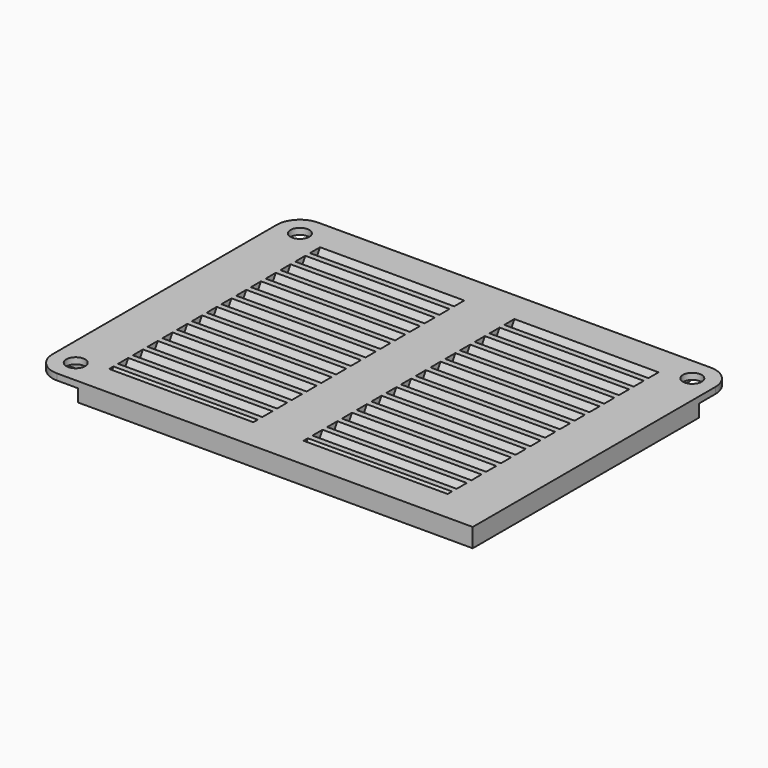
from build123d import *

# Parameters (mm, degrees)
F1_R     = 1.5
F1_W     = 23.025
F1_H     = 42.14
F2_DEPTH = 3
F4_DEPTH = 23.025
F6_DEPTH = 23.025
F8_DEPTH = 2


with BuildPart() as f2:
    # F1 (on Top) → F2 (new body)
    with BuildSketch(Plane.XY):
        with BuildLine():
            ThreePointArc((4, 48.44), (1.383705, 47.356295), (0.3, 44.74))
            Line((0.3, 44.74), (0.3, 0))
            ThreePointArc((0.3, 0), (1.383705, -2.616295), (4, -3.7))
            Line((4, -3.7), (70.35, -3.7))
            Line((70.35, -3.7), (70.35, 44.74))
            ThreePointArc((70.35, 44.74), (69.266295, 47.356295), (66.65, 48.44))
            Line((66.65, 48.44), (4, 48.44))
        make_face()
        with Locations((4, 0)):
            Circle(F1_R, mode=Mode.SUBTRACT)
        with Locations((19.8125, 22.37)):
            Rectangle(F1_W, F1_H, mode=Mode.SUBTRACT)
        with Locations((4, 44.74)):
            Circle(F1_R, mode=Mode.SUBTRACT)
        with Locations((50.8375, 22.37)):
            Rectangle(F1_W, F1_H, mode=Mode.SUBTRACT)
        with Locations((66.65, 44.74)):
            Circle(F1_R, mode=Mode.SUBTRACT)
    extrude(amount=F2_DEPTH)

    # F3 (on face) → F4 (join)
    with BuildSketch(Plane(origin=(31.325, 0, 0), x_dir=(0, -1, 0), z_dir=(-1, 0, 0))):
        Polygon((-22.774145, 3), (-23.697906, 3), (-21.965855, 0), (-21.042094, 0), align=None)
        Polygon((-19.829659, 3), (-20.753419, 3), (-19.021368, 0), (-18.097608, 0), align=None)
        Polygon((-16.885172, 3), (-17.808933, 3), (-16.076882, 0), (-15.153122, 0), align=None)
        Polygon((-13.940686, 3), (-14.864447, 3), (-13.132396, 0), (-12.208635, 0), align=None)
        Polygon((-10.9962, 3), (-11.91996, 3), (-10.187909, 0), (-9.264149, 0), align=None)
        Polygon((-8.051713, 3), (-8.975474, 3), (-7.243423, 0), (-6.319663, 0), align=None)
        Polygon((-5.107227, 3), (-6.030987, 3), (-4.298937, 0), (-3.375176, 0), align=None)
        Polygon((-3.086501, 3), (-1.35445, 0), (-1.3, 0), (-1.3, 1.505689), (-2.162741, 3), align=None)
        Polygon((-23.986581, 0), (-25.718632, 3), (-26.642392, 3), (-24.910341, 0), align=None)
        Polygon((-26.931067, 0), (-28.663118, 3), (-29.586878, 3), (-27.854828, 0), align=None)
        Polygon((-29.875553, 0), (-31.607604, 3), (-32.531365, 3), (-30.799314, 0), align=None)
        Polygon((-32.82004, 0), (-34.552091, 3), (-35.475851, 3), (-33.7438, 0), align=None)
        Polygon((-37.496577, 3), (-38.420337, 3), (-36.688287, 0), (-35.764526, 0), align=None)
        Polygon((-38.709013, 0), (-40.441063, 3), (-41.364824, 3), (-39.632773, 0), align=None)
        Polygon((-42.577259, 0), (-41.653499, 0), (-43.38555, 3), (-43.44, 3), (-43.44, 1.494311), align=None)
    extrude(amount=F4_DEPTH)

    # F5 (on face) → F6 (join)
    with BuildSketch(Plane.YZ.offset(39.325)):
        Polygon((23.697906, 3), (22.774145, 3), (21.042094, 0), (21.965855, 0), align=None)
        Polygon((26.642392, 3), (25.718632, 3), (23.986581, 0), (24.910341, 0), align=None)
        Polygon((29.586878, 3), (28.663118, 3), (26.931067, 0), (27.854828, 0), align=None)
        Polygon((32.531365, 3), (31.607604, 3), (29.875553, 0), (30.799314, 0), align=None)
        Polygon((35.475851, 3), (34.552091, 3), (32.82004, 0), (33.7438, 0), align=None)
        Polygon((38.420337, 3), (37.496577, 3), (35.764526, 0), (36.688287, 0), align=None)
        Polygon((41.364824, 3), (40.441063, 3), (38.709013, 0), (39.632773, 0), align=None)
        Polygon((43.44, 1.494311), (43.44, 3), (43.38555, 3), (41.653499, 0), (42.577259, 0), align=None)
        Polygon((19.021368, 0), (20.753419, 3), (19.829659, 3), (18.097608, 0), align=None)
        Polygon((16.076882, 0), (17.808933, 3), (16.885172, 3), (15.153122, 0), align=None)
        Polygon((13.132396, 0), (14.864447, 3), (13.940686, 3), (12.208635, 0), align=None)
        Polygon((10.187909, 0), (11.91996, 3), (10.9962, 3), (9.264149, 0), align=None)
        Polygon((7.243423, 0), (8.975474, 3), (8.051713, 3), (6.319663, 0), align=None)
        Polygon((4.298937, 0), (6.030987, 3), (5.107227, 3), (3.375176, 0), align=None)
        Polygon((1.3, 1.505689), (1.3, 0), (1.35445, 0), (3.086501, 3), (2.162741, 3), align=None)
    extrude(amount=F6_DEPTH)

    # F7 (on face) → F8 (cut)
    with BuildSketch(Plane(origin=(0, 0, 0), x_dir=(1, 0, 0), z_dir=(0, 0, -1))):
        with BuildLine():
            Line((7.3, 0), (7.3, 3.7))
            Line((7.3, 3.7), (4, 3.7))
            ThreePointArc((4, 3.7), (1.383705, 2.616295), (0.3, 0))
            Line((0.3, 0), (0.3, -3.3))
            Line((0.3, -3.3), (4, -3.3))
            ThreePointArc((4, -3.3), (6.333452, -2.333452), (7.3, 0))
        make_face()
        with BuildLine():
            Line((0.3, -41.44), (0.3, -44.74))
            ThreePointArc((0.3, -44.74), (1.383705, -47.356295), (4, -48.44))
            Line((4, -48.44), (7.3, -48.44))
            Line((7.3, -48.44), (7.3, -44.74))
            ThreePointArc((7.3, -44.74), (6.333452, -42.406548), (4, -41.44))
            Line((4, -41.44), (0.3, -41.44))
        make_face()
        with BuildLine():
            Line((63.35, -48.44), (66.65, -48.44))
            ThreePointArc((66.65, -48.44), (69.266295, -47.356295), (70.35, -44.74))
            Line((70.35, -44.74), (70.35, -41.44))
            Line((70.35, -41.44), (66.65, -41.44))
            ThreePointArc((66.65, -41.44), (64.316548, -42.406548), (63.35, -44.74))
            Line((63.35, -44.74), (63.35, -48.44))
        make_face()
    extrude(amount=-F8_DEPTH, mode=Mode.SUBTRACT)


solid = f2.part
